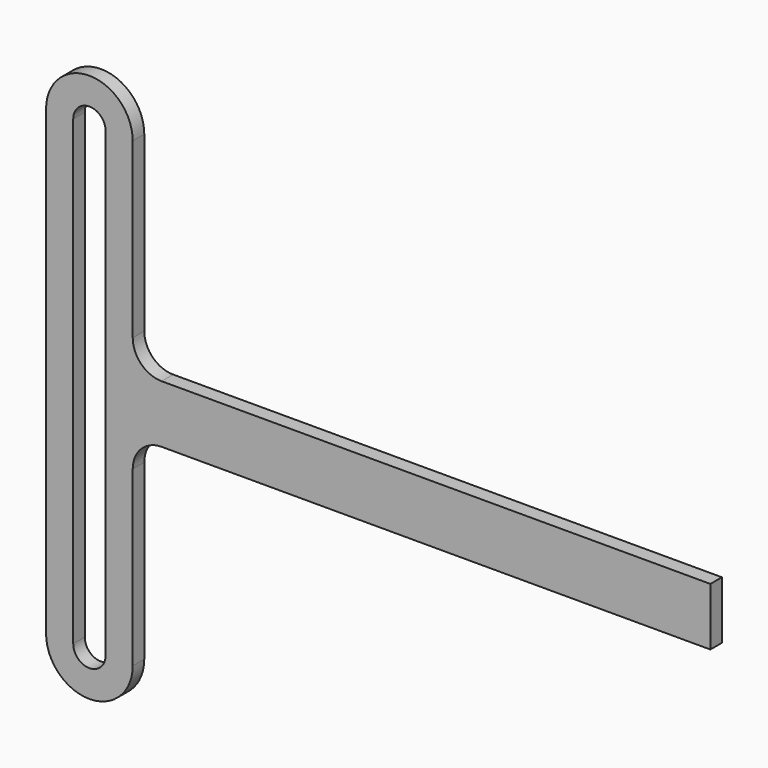
from build123d import *

# Parameters (mm, degrees)
F1_DEPTH = 3.175
F3_DEPTH = 25.4


with BuildPart() as f1:
    # F0 (on Front) → F1 (new body)
    with BuildSketch(Plane.XZ):
        with BuildLine():
            Line((127, 0), (6.35, 0))
            ThreePointArc((6.35, 0), (1.859872, 1.859872), (0, 6.35))
            Line((0, 6.35), (0, 44.45))
            ThreePointArc((0, 44.45), (-9.525, 53.975), (-19.05, 44.45))
            Line((-19.05, 44.45), (-19.05, -57.15))
            ThreePointArc((-19.05, -57.15), (-9.525, -66.675), (0, -57.15))
            Line((0, -57.15), (0, -19.05))
            ThreePointArc((0, -19.05), (1.859872, -14.559872), (6.35, -12.7))
            Line((6.35, -12.7), (127, -12.7))
            Line((127, -12.7), (127, 0))
        make_face()
    extrude(amount=F1_DEPTH)

    # F2 (on face) → F3 (cut)
    with BuildSketch(Plane.XZ.offset(3.175)):
        with BuildLine():
            Line((-5.969, 6.35), (-5.969, 44.45))
            ThreePointArc((-5.969, 44.45), (-9.525, 48.006), (-13.081, 44.45))
            Line((-13.081, 44.45), (-13.081, -57.15))
            ThreePointArc((-13.081, -57.15), (-9.525, -60.706), (-5.969, -57.15))
            Line((-5.969, -57.15), (-5.969, -19.05))
            Line((-5.969, -19.05), (-5.969, 6.35))
        make_face()
    extrude(amount=-F3_DEPTH, mode=Mode.SUBTRACT)


solid = f1.part
